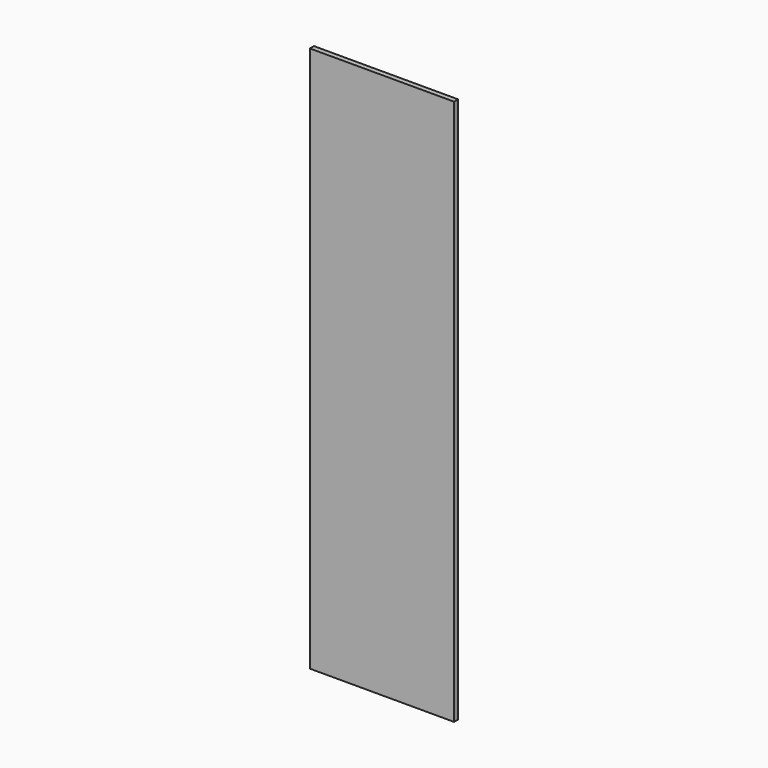
from build123d import *

# Parameters (mm, degrees)
SKETCH004_W  = 540
SKETCH004_H  = 2045
PAD004_DEPTH = 19


with BuildPart() as part:
    # Sketch004 → Pad004 (new body)
    with BuildSketch(Plane.XZ):
        Rectangle(SKETCH004_W, SKETCH004_H)
    extrude(amount=PAD004_DEPTH)


solid = part.part
